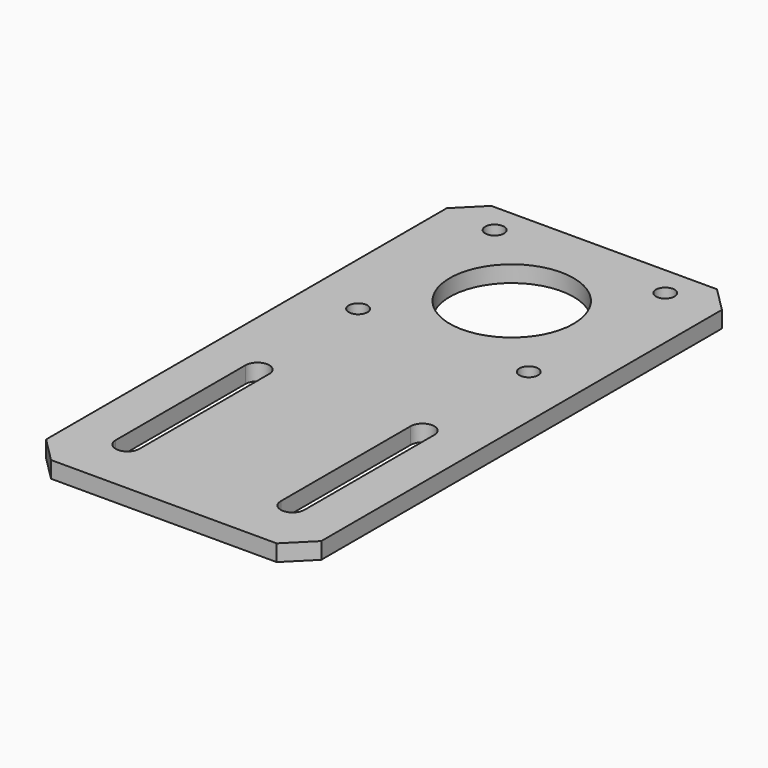
from build123d import *

# Parameters (mm, degrees)
SKETCH_R    = 11.25
PAD_DEPTH   = 3
SKETCH001_R = 1.7
HOLE_DEPTH  = 25


with BuildPart() as part:
    # Sketch → Pad (new body)
    with BuildSketch(Plane.XY):
        Polygon((20.5, 21), (-20.5, 21), (-25, 16.5), (-25, -74.5), (-20.5, -79), (20.5, -79), (25, -74.5), (25, 16.5), align=None)
        Circle(SKETCH_R, mode=Mode.SUBTRACT)
        with BuildLine():
            ThreePointArc((-12.85, -39), (-15, -36.85), (-17.15, -39))
            Line((-17.15, -39), (-17.15, -68.5))
            ThreePointArc((-17.15, -68.5), (-15, -70.65), (-12.85, -68.5))
            Line((-12.85, -68.5), (-12.85, -39))
        make_face(mode=Mode.SUBTRACT)
        with BuildLine():
            ThreePointArc((17.15, -39), (15, -36.85), (12.85, -39))
            Line((12.85, -39), (12.85, -68.5))
            ThreePointArc((12.85, -68.5), (15, -70.65), (17.15, -68.5))
            Line((17.15, -68.5), (17.15, -39))
        make_face(mode=Mode.SUBTRACT)
    extrude(amount=PAD_DEPTH)

    # Sketch001 → Hole (cut)
    with BuildSketch(Plane.XY):
        with Locations((-15.5, 15.5)):
            Circle(SKETCH001_R)
        with Locations((15.5, 15.5)):
            Circle(SKETCH001_R)
        with Locations((15.5, -15.5)):
            Circle(SKETCH001_R)
        with Locations((-15.5, -15.5)):
            Circle(SKETCH001_R)
    extrude(amount=HOLE_DEPTH, mode=Mode.SUBTRACT)


solid = part.part
